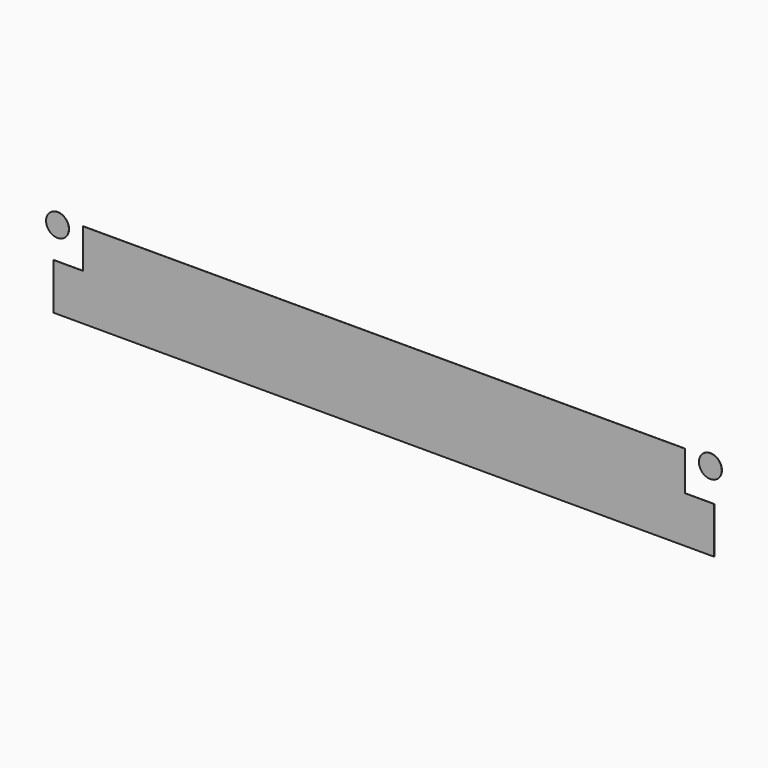
from build123d import *

# Parameters (mm, degrees)
F0_W     = 84.3
F0_H     = 5.5
F0_R     = 1.6
F1_DEPTH = 0.0254


with BuildPart() as f1:
    # F0 (on Front) → F1 (new body)
    with BuildSketch(Plane.XZ):
        Polygon((0, 6.5), (0, 0), (92.5, 0), (92.5, 6.5), (88.4, 6.5), (4.1, 6.5), align=None)
        with Locations((46.25, 9.25)):
            Rectangle(F0_W, F0_H)
        with Locations((0.53, 11)):
            Circle(F0_R)
        with Locations((91.97, 11)):
            Circle(F0_R)
    extrude(amount=F1_DEPTH)


solid = f1.part
